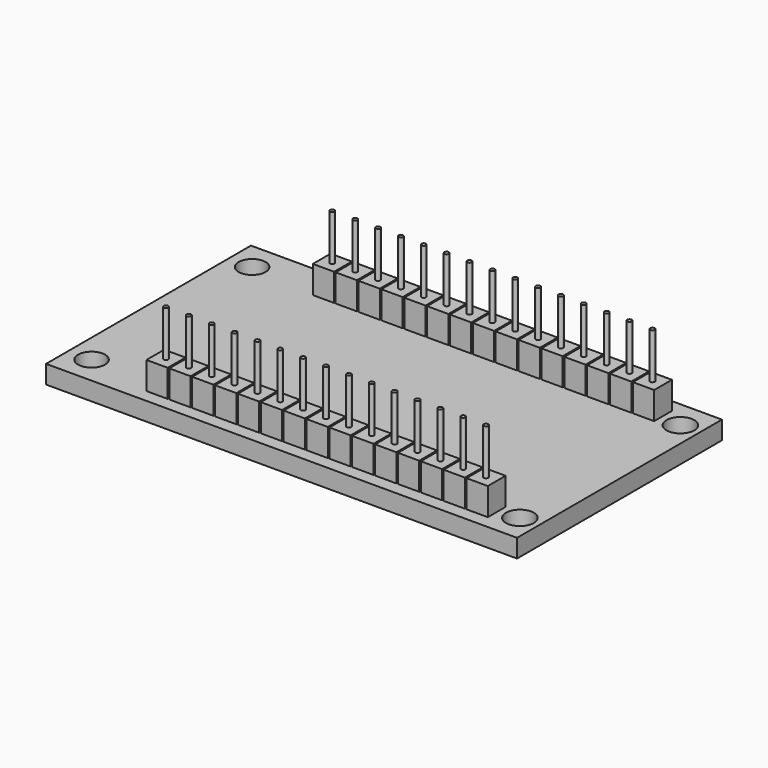
from build123d import *

# Parameters (mm, degrees)
SKETCH024_W                = 51.5
SKETCH024_H                = 14
SKETCH024_R                = 1.522099
SKETCH024_R_2              = 1.478889
PAD010_DEPTH               = 2
SKETCH025_W                = 18
SKETCH025_H                = 7.653357
PAD011_DEPTH               = 3
SKETCH026_W                = 2.323802
SKETCH026_H                = 2.429561
PAD012_DEPTH               = 5
SKETCH027_R                = 0.25
PAD013_DEPTH               = 10
SKETCH026_MIRRORED008_2_W  = 2.323802
SKETCH026_MIRRORED008_2_H  = 2.429561
PAD012_MIRRORED008_2_DEPTH = 5
SKETCH027_MIRRORED008_2_R  = 0.25
PAD013_MIRRORED008_2_DEPTH = 10
LINEARPATTERN_COUNT        = 15
LINEARPATTERN_PITCH        = 2.5


with BuildPart() as part:
    # Sketch024 → Pad010 (new body)
    with BuildSketch(Plane.XY):
        with Locations((-0.6866653219, 7)):
            Rectangle(SKETCH024_W, SKETCH024_H)
        with Locations((22.950167, 10.969199)):
            Circle(SKETCH024_R, mode=Mode.SUBTRACT)
        with Locations((-23.887783, 10.969199)):
            Circle(SKETCH024_R_2, mode=Mode.SUBTRACT)
    pad010 = extrude(amount=PAD010_DEPTH)

    # Sketch025 → Pad011 (join)
    with BuildSketch(Plane.XY):
        with Locations((8.993963, 3.8266785)):
            Rectangle(SKETCH025_W, SKETCH025_H)
    pad011 = extrude(amount=-PAD011_DEPTH)

    # Sketch026 → Pad012 (join)
    with BuildSketch(Plane.XY):
        with Locations((19.568367, 11.3677635)):
            Rectangle(SKETCH026_W, SKETCH026_H)
    pad012 = extrude(amount=PAD012_DEPTH)

    # Sketch027 → Pad013 (join)
    with BuildSketch(Plane.XY):
        with Locations((19.568367, 11.3677635)):
            Circle(SKETCH027_R)
    pad013 = extrude(amount=PAD013_DEPTH)

    # Mirrored007: Pad010, Pad011 across Sketch024 H_Axis
    add(pad010.mirror(Plane.ZX))
    add(pad011.mirror(Plane.ZX))

    # Sketch026 Mirrored008 2 → Pad012 Mirrored008 2 (add)
    with BuildSketch(Plane(origin=(0, 0, 0), x_dir=(1, 0, 0), z_dir=(0, 0, -1))):
        with Locations((19.568367, 11.3677635)):
            Rectangle(SKETCH026_MIRRORED008_2_W, SKETCH026_MIRRORED008_2_H)
    pad012_mirrored008_2 = extrude(amount=-PAD012_MIRRORED008_2_DEPTH)

    # Sketch027 Mirrored008 2 → Pad013 Mirrored008 2 (add)
    with BuildSketch(Plane(origin=(0, 0, 0), x_dir=(1, 0, 0), z_dir=(0, 0, -1))):
        with Locations((19.568367, 11.3677635)):
            Circle(SKETCH027_MIRRORED008_2_R)
    pad013_mirrored008_2 = extrude(amount=-PAD013_MIRRORED008_2_DEPTH)

    # LinearPattern: Pad012, Pad013, Pad012 Mirrored008 2, Pad013 Mirrored008 2 ×15
    with Locations(*[(-i * LINEARPATTERN_PITCH, 0, 0) for i in range(1, LINEARPATTERN_COUNT)]):
        add(pad012)
        add(pad013)
        add(pad012_mirrored008_2)
        add(pad013_mirrored008_2)


with BuildPart() as part_1:
    # Body004 placement: moved
    add(part.part.moved(Location((49, 0, -16))))


solid = part_1.part
